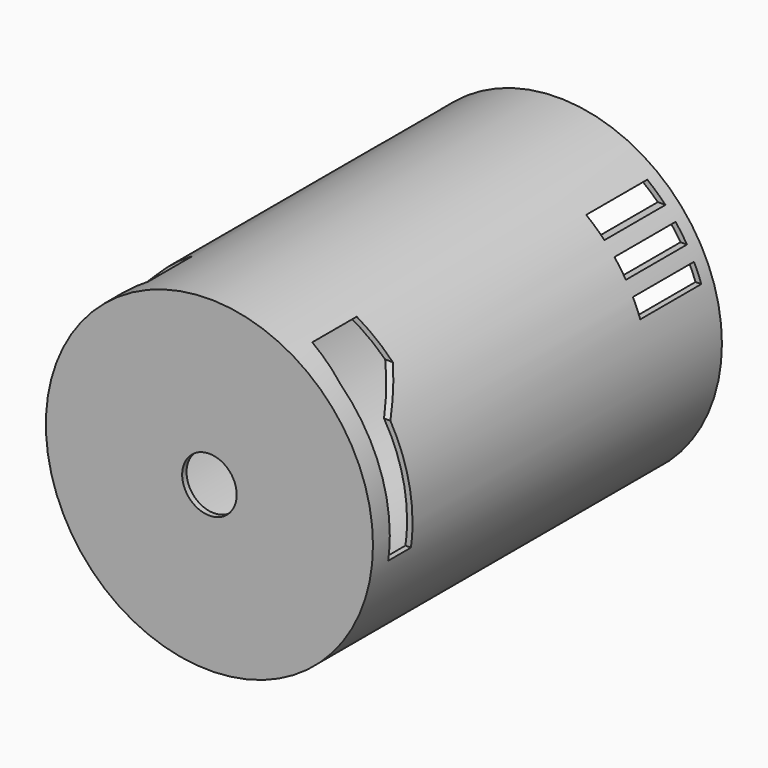
from build123d import *

# Parameters (mm, degrees)
F0_R     = 76.2
F1_DEPTH = 203.2
F2_R     = 12.7
F3_DEPTH = 38.1
F4_T     = -2.54
F5_W     = 35.56
F5_H     = 7.62
F5_H_2   = 8.059159
F6_DEPTH = 88.9
F7_R     = 12.7
F8_DEPTH = 241.301


with BuildPart() as f1:
    # F0 (on Front) → F1 (new body)
    with BuildSketch(Plane.XZ):
        Circle(F0_R)
    extrude(amount=F1_DEPTH)

    # F2 (on face) → F3 (join)
    with BuildSketch(Plane.XZ.offset(203.2)):
        Circle(F2_R)
    extrude(amount=F3_DEPTH)

    # F4
    f4_openings = [f1.faces().sort_by_distance(p)[0] for p in [
        (0, 0, 0),
    ]]
    offset(amount=F4_T, openings=f4_openings)

    # F5 (on Right) → F6 (cut, symmetric)
    with BuildSketch(Plane.YZ):
        with Locations((-24.242766, 56.482356)):
            Rectangle(F5_W, F5_H)
        with Locations((-24.242766, 43.461889)):
            Rectangle(F5_W, F5_H)
        with Locations((-24.242766, 29.646189)):
            Rectangle(F5_W, F5_H_2)
        Polygon((-165.21275, 65.912403), (-191.117182, 65.912403), (-193.419799, 54.399319), (-193.419799, -10.649604), (-180.17976, -10.649604), (-180.17976, 38.281005), (-165.21275, 52.672356), align=None)
    extrude(amount=F6_DEPTH, both=True, mode=Mode.SUBTRACT)

    # F7 (on face) → F8 (cut, through all)
    with BuildSketch(Plane.XZ.offset(241.3)):
        Circle(F7_R)
    extrude(amount=-F8_DEPTH, mode=Mode.SUBTRACT)


solid = f1.part
